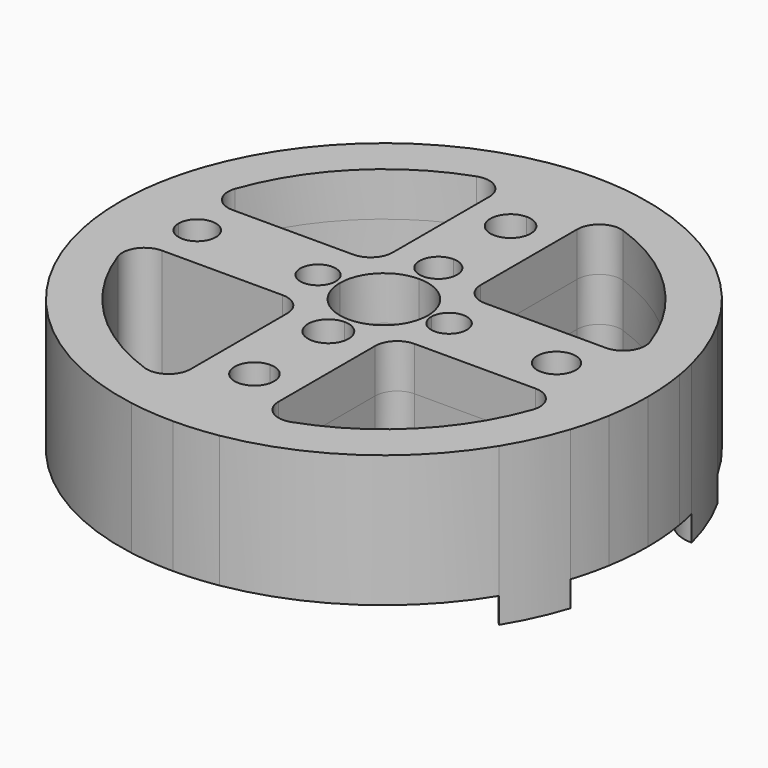
from build123d import *

# Parameters (mm, degrees)
F1_DEPTH = 12.7
F2_DEPTH = 20.066
F3_DEPTH = 25.4


with BuildPart() as f1:
    # F0 (on Top) → F1 (new body, symmetric)
    with BuildSketch(Plane.XY):
        with BuildLine():
            Line((55.388025, 0), (76.2, 0))
            ThreePointArc((76.2, 0), (75.933086, 6.372321), (75.134213, 12.7))
            ThreePointArc((75.134213, 12.7), (74.559579, 15.726068), (73.863119, 18.726441))
            ThreePointArc((73.863119, 18.726441), (63.801877, 25.495547), (66.427321, 37.334315))
            ThreePointArc((66.427321, 37.334315), (43.846223, 62.321334), (12.7, 75.134213))
            ThreePointArc((12.7, 75.134213), (6.372321, 75.933086), (0, 76.2))
            Line((0, 76.2), (0, 51.520486))
            ThreePointArc((0, 51.520486), (4.119418, 49.814168), (5.825737, 45.69475))
            ThreePointArc((5.825737, 45.69475), (4.119418, 41.575332), (0, 39.869013))
            Line((0, 39.869013), (0, 25.069742))
            ThreePointArc((0, 25.069742), (3.837347, 23.480261), (5.426828, 19.642914))
            ThreePointArc((5.426828, 19.642914), (3.837347, 15.805567), (0, 14.216086))
            Line((0, 14.216086), (0, 12.7))
            ThreePointArc((0, 12.7), (8.980256, 8.980256), (12.7, 0))
            Line((12.7, 0), (13.678565, 0))
            ThreePointArc((13.678565, 0), (18.813722, 5.135156), (23.948878, 0))
            Line((23.948878, 0), (44.262671, 0))
            ThreePointArc((44.262671, 0), (49.825348, 5.562677), (55.388025, 0))
        make_face()
        with BuildLine():
            ThreePointArc((19.05, 12.7), (14.559872, 14.559872), (12.7, 19.05))
            Line((12.7, 19.05), (12.7, 53.881537))
            ThreePointArc((12.7, 53.881537), (15.383826, 59.06629), (21.166667, 59.868374))
            ThreePointArc((21.166667, 59.868374), (44.901281, 44.901281), (59.868374, 21.166666))
            ThreePointArc((59.868374, 21.166666), (59.06629, 15.383826), (53.881537, 12.7))
            Line((53.881537, 12.7), (19.05, 12.7))
        make_face(mode=Mode.SUBTRACT)
        with BuildLine():
            ThreePointArc((75.134213, -12.7), (75.933086, -6.372321), (76.2, 0))
            Line((76.2, 0), (55.388025, 0))
            ThreePointArc((55.388025, 0), (49.825348, -5.562677), (44.262671, 0))
            Line((44.262671, 0), (23.948878, 0))
            ThreePointArc((23.948878, 0), (18.813722, -5.135156), (13.678565, 0))
            Line((13.678565, 0), (12.7, 0))
            ThreePointArc((12.7, 0), (8.980256, -8.980256), (0, -12.7))
            Line((0, -12.7), (0, -14.203526))
            ThreePointArc((0, -14.203526), (4.137703, -15.917419), (5.851596, -20.055123))
            ThreePointArc((5.851596, -20.055123), (4.137703, -24.192826), (0, -25.906719))
            Line((0, -25.906719), (0, -41.023732))
            ThreePointArc((0, -41.023732), (4.032989, -42.694251), (5.703508, -46.72724))
            ThreePointArc((5.703508, -46.72724), (4.032989, -50.760229), (0, -52.430748))
            Line((0, -52.430748), (0, -76.2))
            ThreePointArc((0, -76.2), (6.372321, -75.933086), (12.7, -75.134213))
            ThreePointArc((12.7, -75.134213), (42.708008, -63.106783), (65.028719, -39.720344))
            ThreePointArc((65.028719, -39.720344), (62.673462, -28.704014), (72.553151, -23.291205))
            ThreePointArc((72.553151, -23.291205), (74.033322, -18.041817), (75.134213, -12.7))
        make_face()
        with BuildLine():
            ThreePointArc((12.7, -19.05), (14.559872, -14.559872), (19.05, -12.7))
            Line((19.05, -12.7), (53.881537, -12.7))
            ThreePointArc((53.881537, -12.7), (59.06629, -15.383826), (59.868374, -21.166666))
            ThreePointArc((59.868374, -21.166666), (44.901281, -44.901281), (21.166666, -59.868374))
            ThreePointArc((21.166666, -59.868374), (15.383826, -59.06629), (12.7, -53.881537))
            Line((12.7, -53.881537), (12.7, -19.05))
        make_face(mode=Mode.SUBTRACT)
        with BuildLine():
            ThreePointArc((66.427321, 37.334315), (63.801877, 25.495547), (73.863119, 18.726441))
            ThreePointArc((73.863119, 18.726441), (70.759559, 28.275871), (66.427321, 37.334315))
        make_face()
        with BuildLine():
            ThreePointArc((65.028719, -39.720344), (69.279664, -31.729609), (72.553151, -23.291205))
            ThreePointArc((72.553151, -23.291205), (62.673462, -28.704014), (65.028719, -39.720344))
        make_face()
        with BuildLine():
            Line((0, 51.520486), (0, 76.2))
            ThreePointArc((0, 76.2), (-6.372321, 75.933086), (-12.7, 75.134213))
            ThreePointArc((-12.7, 75.134213), (-41.946867, 63.615252), (-64.055753, 41.271061))
            ThreePointArc((-64.055753, 41.271061), (-62.938467, 30.636224), (-71.997826, 24.955019))
            ThreePointArc((-71.997826, 24.955019), (-73.820767, 18.892706), (-75.134213, 12.7))
            ThreePointArc((-75.134213, 12.7), (-75.933086, 6.372321), (-76.2, 0))
            Line((-76.2, 0), (-59.257439, 0))
            ThreePointArc((-59.257439, 0), (-53.881537, 5.375903), (-48.505634, 0))
            Line((-48.505634, 0), (-24.126406, 0))
            ThreePointArc((-24.126406, 0), (-19.020466, 5.10594), (-13.914526, 0))
            Line((-13.914526, 0), (-12.7, 0))
            ThreePointArc((-12.7, 0), (-8.980256, 8.980256), (0, 12.7))
            Line((0, 12.7), (0, 14.216086))
            ThreePointArc((0, 14.216086), (-5.426828, 19.642914), (0, 25.069742))
            Line((0, 25.069742), (0, 39.869013))
            ThreePointArc((0, 39.869013), (-5.825737, 45.69475), (0, 51.520486))
        make_face()
        with BuildLine():
            ThreePointArc((-59.868374, 21.166666), (-44.901281, 44.901281), (-21.166667, 59.868374))
            ThreePointArc((-21.166667, 59.868374), (-15.383826, 59.06629), (-12.7, 53.881537))
            Line((-12.7, 53.881537), (-12.7, 19.05))
            ThreePointArc((-12.7, 19.05), (-14.559872, 14.559872), (-19.05, 12.7))
            Line((-19.05, 12.7), (-53.881537, 12.7))
            ThreePointArc((-53.881537, 12.7), (-59.06629, 15.383826), (-59.868374, 21.166666))
        make_face(mode=Mode.SUBTRACT)
        with BuildLine():
            ThreePointArc((-12.7, -75.134213), (-6.372321, -75.933086), (0, -76.2))
            Line((0, -76.2), (0, -52.430748))
            ThreePointArc((0, -52.430748), (-5.703508, -46.72724), (0, -41.023732))
            Line((0, -41.023732), (0, -25.906719))
            ThreePointArc((0, -25.906719), (-5.851596, -20.055123), (0, -14.203526))
            Line((0, -14.203526), (0, -12.7))
            ThreePointArc((0, -12.7), (-8.980256, -8.980256), (-12.7, 0))
            Line((-12.7, 0), (-13.914526, 0))
            ThreePointArc((-13.914526, 0), (-19.020466, -5.10594), (-24.126406, 0))
            Line((-24.126406, 0), (-48.505634, 0))
            ThreePointArc((-48.505634, 0), (-53.881537, -5.375903), (-59.257439, 0))
            Line((-59.257439, 0), (-76.2, 0))
            ThreePointArc((-76.2, 0), (-75.456097, -10.621554), (-73.238913, -21.035721))
            ThreePointArc((-73.238913, -21.035721), (-63.56087, -27.412697), (-65.565352, -38.828143))
            ThreePointArc((-65.565352, -38.828143), (-43.138139, -62.813542), (-12.7, -75.134213))
        make_face()
        with BuildLine():
            ThreePointArc((-19.05, -12.7), (-14.559872, -14.559872), (-12.7, -19.05))
            Line((-12.7, -19.05), (-12.7, -53.881537))
            ThreePointArc((-12.7, -53.881537), (-15.383826, -59.06629), (-21.166666, -59.868374))
            ThreePointArc((-21.166666, -59.868374), (-44.901281, -44.901281), (-59.868374, -21.166667))
            ThreePointArc((-59.868374, -21.166667), (-59.06629, -15.383826), (-53.881537, -12.7))
            Line((-53.881537, -12.7), (-19.05, -12.7))
        make_face(mode=Mode.SUBTRACT)
        with BuildLine():
            ThreePointArc((-71.997826, 24.955019), (-62.938467, 30.636224), (-64.055753, 41.271061))
            ThreePointArc((-64.055753, 41.271061), (-68.514213, 33.350301), (-71.997826, 24.955019))
        make_face()
        with BuildLine():
            ThreePointArc((-73.238913, -21.035721), (-69.969983, -30.176836), (-65.565352, -38.828143))
            ThreePointArc((-65.565352, -38.828143), (-63.56087, -27.412697), (-73.238913, -21.035721))
        make_face()
    extrude(amount=F1_DEPTH, both=True)

    # F0 (on Top) → F2 (join, symmetric)
    with BuildSketch(Plane.XY):
        with BuildLine():
            ThreePointArc((-71.997826, 24.955019), (-62.938467, 30.636224), (-64.055753, 41.271061))
            ThreePointArc((-64.055753, 41.271061), (-68.514213, 33.350301), (-71.997826, 24.955019))
        make_face()
        with BuildLine():
            ThreePointArc((-73.238913, -21.035721), (-69.969983, -30.176836), (-65.565352, -38.828143))
            ThreePointArc((-65.565352, -38.828143), (-63.56087, -27.412697), (-73.238913, -21.035721))
        make_face()
        with BuildLine():
            ThreePointArc((65.028719, -39.720344), (69.279664, -31.729609), (72.553151, -23.291205))
            ThreePointArc((72.553151, -23.291205), (62.673462, -28.704014), (65.028719, -39.720344))
        make_face()
        with BuildLine():
            ThreePointArc((66.427321, 37.334315), (63.801877, 25.495547), (73.863119, 18.726441))
            ThreePointArc((73.863119, 18.726441), (70.759559, 28.275871), (66.427321, 37.334315))
        make_face()
    extrude(amount=F2_DEPTH, both=True)

    # F0 (on Top) → F3 (join)
    with BuildSketch(Plane.XY):
        with BuildLine():
            Line((55.388025, 0), (76.2, 0))
            ThreePointArc((76.2, 0), (75.933086, 6.372321), (75.134213, 12.7))
            ThreePointArc((75.134213, 12.7), (74.559579, 15.726068), (73.863119, 18.726441))
            ThreePointArc((73.863119, 18.726441), (63.801877, 25.495547), (66.427321, 37.334315))
            ThreePointArc((66.427321, 37.334315), (43.846223, 62.321334), (12.7, 75.134213))
            ThreePointArc((12.7, 75.134213), (6.372321, 75.933086), (0, 76.2))
            Line((0, 76.2), (0, 51.520486))
            ThreePointArc((0, 51.520486), (4.119418, 49.814168), (5.825737, 45.69475))
            ThreePointArc((5.825737, 45.69475), (4.119418, 41.575332), (0, 39.869013))
            Line((0, 39.869013), (0, 25.069742))
            ThreePointArc((0, 25.069742), (3.837347, 23.480261), (5.426828, 19.642914))
            ThreePointArc((5.426828, 19.642914), (3.837347, 15.805567), (0, 14.216086))
            Line((0, 14.216086), (0, 12.7))
            ThreePointArc((0, 12.7), (8.980256, 8.980256), (12.7, 0))
            Line((12.7, 0), (13.678565, 0))
            ThreePointArc((13.678565, 0), (18.813722, 5.135156), (23.948878, 0))
            Line((23.948878, 0), (44.262671, 0))
            ThreePointArc((44.262671, 0), (49.825348, 5.562677), (55.388025, 0))
        make_face()
        with BuildLine():
            ThreePointArc((19.05, 12.7), (14.559872, 14.559872), (12.7, 19.05))
            Line((12.7, 19.05), (12.7, 53.881537))
            ThreePointArc((12.7, 53.881537), (15.383826, 59.06629), (21.166667, 59.868374))
            ThreePointArc((21.166667, 59.868374), (44.901281, 44.901281), (59.868374, 21.166666))
            ThreePointArc((59.868374, 21.166666), (59.06629, 15.383826), (53.881537, 12.7))
            Line((53.881537, 12.7), (19.05, 12.7))
        make_face(mode=Mode.SUBTRACT)
        with BuildLine():
            ThreePointArc((75.134213, -12.7), (75.933086, -6.372321), (76.2, 0))
            Line((76.2, 0), (55.388025, 0))
            ThreePointArc((55.388025, 0), (49.825348, -5.562677), (44.262671, 0))
            Line((44.262671, 0), (23.948878, 0))
            ThreePointArc((23.948878, 0), (18.813722, -5.135156), (13.678565, 0))
            Line((13.678565, 0), (12.7, 0))
            ThreePointArc((12.7, 0), (8.980256, -8.980256), (0, -12.7))
            Line((0, -12.7), (0, -14.203526))
            ThreePointArc((0, -14.203526), (4.137703, -15.917419), (5.851596, -20.055123))
            ThreePointArc((5.851596, -20.055123), (4.137703, -24.192826), (0, -25.906719))
            Line((0, -25.906719), (0, -41.023732))
            ThreePointArc((0, -41.023732), (4.032989, -42.694251), (5.703508, -46.72724))
            ThreePointArc((5.703508, -46.72724), (4.032989, -50.760229), (0, -52.430748))
            Line((0, -52.430748), (0, -76.2))
            ThreePointArc((0, -76.2), (6.372321, -75.933086), (12.7, -75.134213))
            ThreePointArc((12.7, -75.134213), (42.708008, -63.106783), (65.028719, -39.720344))
            ThreePointArc((65.028719, -39.720344), (62.673462, -28.704014), (72.553151, -23.291205))
            ThreePointArc((72.553151, -23.291205), (74.033322, -18.041817), (75.134213, -12.7))
        make_face()
        with BuildLine():
            ThreePointArc((12.7, -19.05), (14.559872, -14.559872), (19.05, -12.7))
            Line((19.05, -12.7), (53.881537, -12.7))
            ThreePointArc((53.881537, -12.7), (59.06629, -15.383826), (59.868374, -21.166666))
            ThreePointArc((59.868374, -21.166666), (44.901281, -44.901281), (21.166666, -59.868374))
            ThreePointArc((21.166666, -59.868374), (15.383826, -59.06629), (12.7, -53.881537))
            Line((12.7, -53.881537), (12.7, -19.05))
        make_face(mode=Mode.SUBTRACT)
        with BuildLine():
            ThreePointArc((66.427321, 37.334315), (63.801877, 25.495547), (73.863119, 18.726441))
            ThreePointArc((73.863119, 18.726441), (70.759559, 28.275871), (66.427321, 37.334315))
        make_face()
        with BuildLine():
            ThreePointArc((65.028719, -39.720344), (69.279664, -31.729609), (72.553151, -23.291205))
            ThreePointArc((72.553151, -23.291205), (62.673462, -28.704014), (65.028719, -39.720344))
        make_face()
        with BuildLine():
            Line((0, 51.520486), (0, 76.2))
            ThreePointArc((0, 76.2), (-6.372321, 75.933086), (-12.7, 75.134213))
            ThreePointArc((-12.7, 75.134213), (-41.946867, 63.615252), (-64.055753, 41.271061))
            ThreePointArc((-64.055753, 41.271061), (-62.938467, 30.636224), (-71.997826, 24.955019))
            ThreePointArc((-71.997826, 24.955019), (-73.820767, 18.892706), (-75.134213, 12.7))
            ThreePointArc((-75.134213, 12.7), (-75.933086, 6.372321), (-76.2, 0))
            Line((-76.2, 0), (-59.257439, 0))
            ThreePointArc((-59.257439, 0), (-53.881537, 5.375903), (-48.505634, 0))
            Line((-48.505634, 0), (-24.126406, 0))
            ThreePointArc((-24.126406, 0), (-19.020466, 5.10594), (-13.914526, 0))
            Line((-13.914526, 0), (-12.7, 0))
            ThreePointArc((-12.7, 0), (-8.980256, 8.980256), (0, 12.7))
            Line((0, 12.7), (0, 14.216086))
            ThreePointArc((0, 14.216086), (-5.426828, 19.642914), (0, 25.069742))
            Line((0, 25.069742), (0, 39.869013))
            ThreePointArc((0, 39.869013), (-5.825737, 45.69475), (0, 51.520486))
        make_face()
        with BuildLine():
            ThreePointArc((-59.868374, 21.166666), (-44.901281, 44.901281), (-21.166667, 59.868374))
            ThreePointArc((-21.166667, 59.868374), (-15.383826, 59.06629), (-12.7, 53.881537))
            Line((-12.7, 53.881537), (-12.7, 19.05))
            ThreePointArc((-12.7, 19.05), (-14.559872, 14.559872), (-19.05, 12.7))
            Line((-19.05, 12.7), (-53.881537, 12.7))
            ThreePointArc((-53.881537, 12.7), (-59.06629, 15.383826), (-59.868374, 21.166666))
        make_face(mode=Mode.SUBTRACT)
        with BuildLine():
            ThreePointArc((-12.7, -75.134213), (-6.372321, -75.933086), (0, -76.2))
            Line((0, -76.2), (0, -52.430748))
            ThreePointArc((0, -52.430748), (-5.703508, -46.72724), (0, -41.023732))
            Line((0, -41.023732), (0, -25.906719))
            ThreePointArc((0, -25.906719), (-5.851596, -20.055123), (0, -14.203526))
            Line((0, -14.203526), (0, -12.7))
            ThreePointArc((0, -12.7), (-8.980256, -8.980256), (-12.7, 0))
            Line((-12.7, 0), (-13.914526, 0))
            ThreePointArc((-13.914526, 0), (-19.020466, -5.10594), (-24.126406, 0))
            Line((-24.126406, 0), (-48.505634, 0))
            ThreePointArc((-48.505634, 0), (-53.881537, -5.375903), (-59.257439, 0))
            Line((-59.257439, 0), (-76.2, 0))
            ThreePointArc((-76.2, 0), (-75.456097, -10.621554), (-73.238913, -21.035721))
            ThreePointArc((-73.238913, -21.035721), (-63.56087, -27.412697), (-65.565352, -38.828143))
            ThreePointArc((-65.565352, -38.828143), (-43.138139, -62.813542), (-12.7, -75.134213))
        make_face()
        with BuildLine():
            ThreePointArc((-19.05, -12.7), (-14.559872, -14.559872), (-12.7, -19.05))
            Line((-12.7, -19.05), (-12.7, -53.881537))
            ThreePointArc((-12.7, -53.881537), (-15.383826, -59.06629), (-21.166666, -59.868374))
            ThreePointArc((-21.166666, -59.868374), (-44.901281, -44.901281), (-59.868374, -21.166667))
            ThreePointArc((-59.868374, -21.166667), (-59.06629, -15.383826), (-53.881537, -12.7))
            Line((-53.881537, -12.7), (-19.05, -12.7))
        make_face(mode=Mode.SUBTRACT)
        with BuildLine():
            ThreePointArc((-71.997826, 24.955019), (-62.938467, 30.636224), (-64.055753, 41.271061))
            ThreePointArc((-64.055753, 41.271061), (-68.514213, 33.350301), (-71.997826, 24.955019))
        make_face()
        with BuildLine():
            ThreePointArc((-73.238913, -21.035721), (-69.969983, -30.176836), (-65.565352, -38.828143))
            ThreePointArc((-65.565352, -38.828143), (-63.56087, -27.412697), (-73.238913, -21.035721))
        make_face()
    extrude(amount=F3_DEPTH)


solid = f1.part
